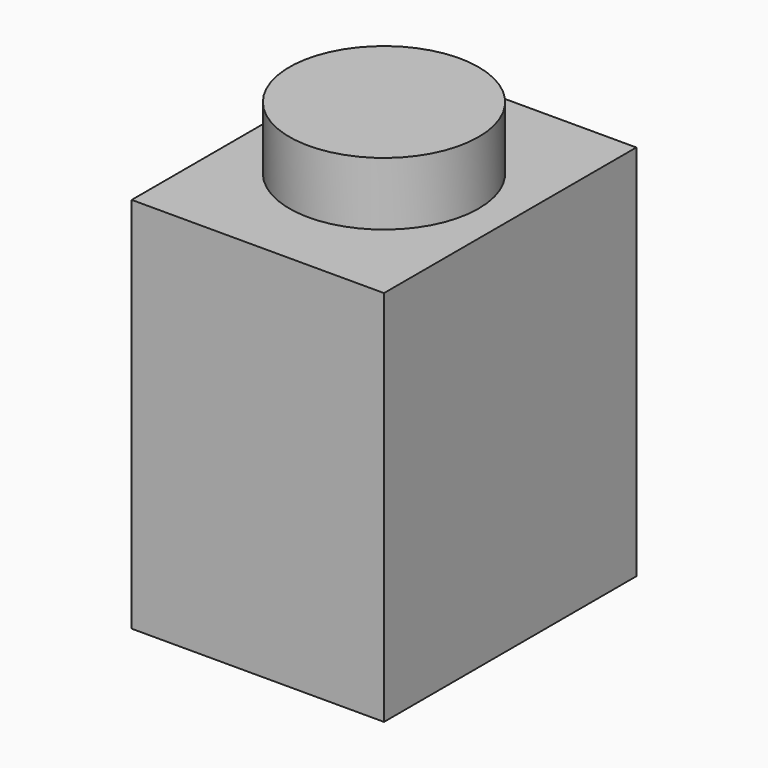
from build123d import *

# Parameters (mm, degrees)
F4_DEPTH  = 4.000005
F1_R      = 2.399995
F5_DEPTH  = 1.599999
F2_R      = 2.368695
F6_DEPTH  = 25.4
F6_FACE_R = 2.368695
F7_DEPTH  = 1.599999
F3_W      = 0.8
F3_H      = 0.8
F8_DEPTH  = 1.599999


with BuildPart() as f4:
    # F0 (on Front) → F4 (new body, symmetric)
    with BuildSketch(Plane.XZ):
        Polygon((3.200006, 0), (0, 0), (-3.200006, 0), (-3.200006, -9.5758), (3.200006, -9.5758), align=None)
    extrude(amount=F4_DEPTH, both=True)

    # F1 (on Top) → F5 (join)
    with BuildSketch(Plane.XY):
        Circle(F1_R)
    extrude(amount=F5_DEPTH)

    # F2 (on Top) → F6 (cut)
    with BuildSketch(Plane.XY):
        Circle(F2_R)
    extrude(amount=-F6_DEPTH, mode=Mode.SUBTRACT)

    # F6_face (on face) → F7 (join)
    with BuildSketch(Plane(origin=(0, 0, 0), x_dir=(1, 0, 0), z_dir=(0, 0, -1))):
        Circle(F6_FACE_R)
    extrude(amount=F7_DEPTH)

    # F3 (on Top) → F8 (cut)
    with BuildSketch(Plane.XY):
        Rectangle(F3_W, F3_H)
    extrude(amount=-F8_DEPTH, mode=Mode.SUBTRACT)


solid = f4.part
